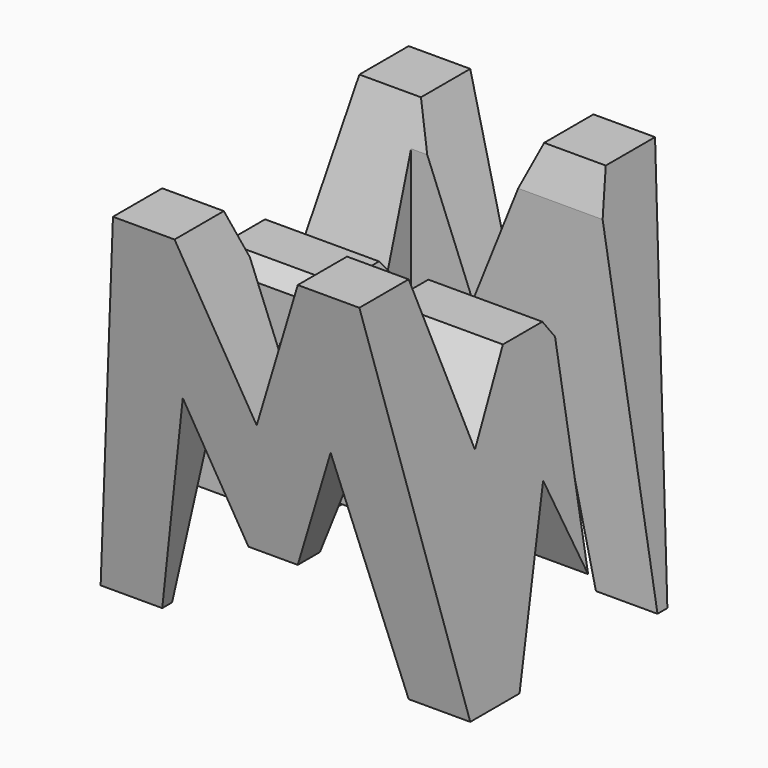
from build123d import *

# Parameters (mm, degrees)
F0_W      = 38.1
F0_H      = 38.1
F1_DEPTH  = 38.1
F6_DEPTH  = 38.1
F8_DEPTH  = 38.1
F9_W      = 25.4
F9_H      = 7.62
F10_DEPTH = 38.1


with BuildPart() as f1:
    # F0 (on Front) → F1 (new body)
    with BuildSketch(Plane.XZ):
        with Locations((19.05, 19.05)):
            Rectangle(F0_W, F0_H)
    extrude(amount=F1_DEPTH)

    # F5 (on offset) → F6 (cut)
    with BuildSketch(Plane.YZ.offset(38.1)):
        Polygon((-11.43, 21.477904), (-6.35, 38.1), (-31.750008, 38.1), (-26.67, 21.477904), (-21.59, 28.575), (-16.51, 28.575), align=None)
        Polygon((-31.750008, 0), (-38.100008, 38.1), (-38.100008, 0), align=None)
        Polygon((-25.400008, 0), (-12.700008, 0), (-19.050008, 15.875), align=None)
        Polygon((-6.35, 0), (0, 0), (0, 38.1), align=None)
    extrude(amount=-F6_DEPTH, mode=Mode.SUBTRACT)

    # F7 (on offset) → F8 (cut)
    with BuildSketch(Plane.XZ.offset(38.1)):
        Polygon((11.43, 22.225), (6.35, 0), (31.75, 0), (26.67, 22.225), (21.59, 9.525), (16.51, 9.525), align=None)
        Polygon((0, 0), (6.35, 38.1), (0, 38.1), align=None)
        Polygon((25.4, 38.1), (12.7, 38.1), (19.05, 22.225), align=None)
        Polygon((38.1, 38.1), (31.75, 38.1), (38.1, 0), align=None)
    extrude(amount=-F8_DEPTH, mode=Mode.SUBTRACT)

    # F9 (on offset) → F10 (cut)
    with BuildSketch(Plane.XY.offset(38.1)):
        with Locations((25.4, -11.43)):
            Rectangle(F9_W, F9_H)
        with Locations((12.7, -26.67)):
            Rectangle(F9_W, F9_H)
    extrude(amount=-F10_DEPTH, mode=Mode.SUBTRACT)


solid = f1.part
